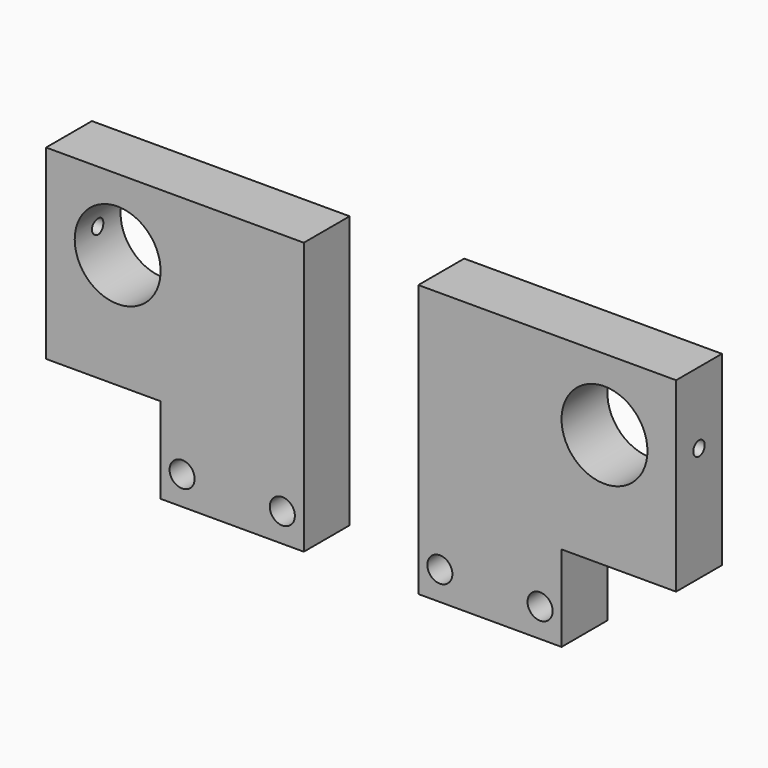
from build123d import *

# Parameters (mm, degrees)
F0_R     = 5.5626
F0_R_2   = 19.05
F1_DEPTH = 25.4
F2_R     = 3.175
F3_DEPTH = 25.4


with BuildPart() as f1:
    # F0 (on Front) → F1 (new body)
    with BuildSketch(Plane.XZ):
        Polygon((1449.700764, -867.992472), (1386.200764, -867.992472), (1386.200764, -988.642472), (1449.700764, -988.642472), (1449.700764, -950.542472), (1500.500764, -950.542472), (1500.500764, -867.992472), align=None)
        with Locations((1395.725764, -975.942472)):
            Circle(F0_R, mode=Mode.SUBTRACT)
        with Locations((1440.175764, -975.942472)):
            Circle(F0_R, mode=Mode.SUBTRACT)
        with Locations((1468.750764, -899.742472)):
            Circle(F0_R_2, mode=Mode.SUBTRACT)
    extrude(amount=-F1_DEPTH)

    # F2 (on face) → F3 (cut)
    with BuildSketch(Plane.YZ.offset(1500.500764)):
        with Locations((12.7, -899.742472)):
            Circle(F2_R)
    extrude(amount=-F3_DEPTH, mode=Mode.SUBTRACT)


with BuildPart() as f5_1:
    # F5: instance of F1
    add(f1.part.mirror(Plane(origin=(1360.800764, 12.7, -928.317472), x_dir=(0, -1, 0), z_dir=(-1, 0, 0))))


solid = Compound([f1.part, f5_1.part])
